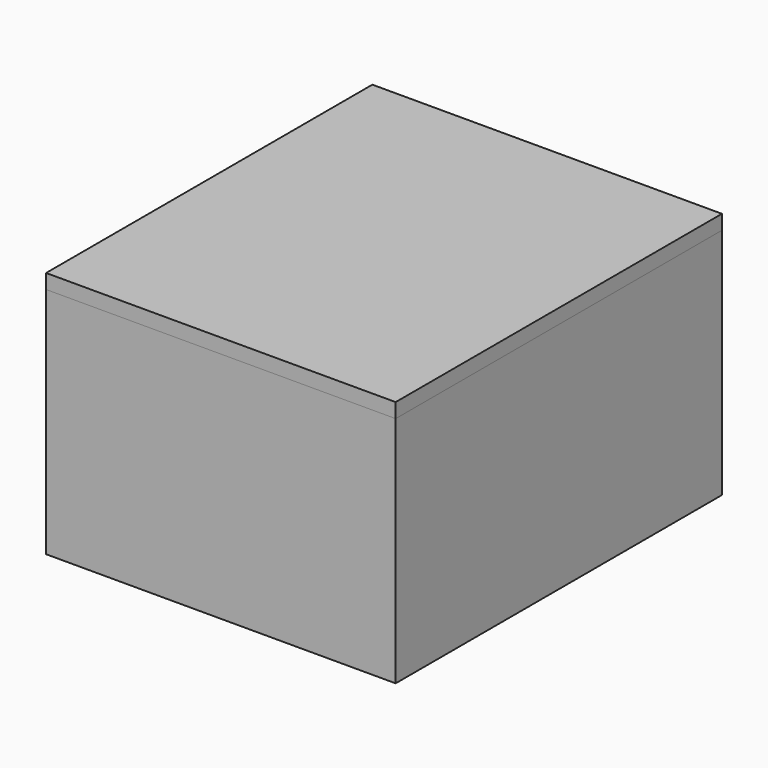
from build123d import *

# Parameters (mm, degrees)
F0_W      = 60
F0_H      = 70
F1_DEPTH  = 40
F2_T      = -2.5
F3_W      = 60
F3_H      = 70
F3_W_2    = 55
F3_H_2    = 65
F4_DEPTH  = 2.5
F5_DEPTH  = 4
F6_R      = 2.5
F6_R_2    = 1.6602380345
F6_R_3    = 1.65
F7_DEPTH  = 25
F7_FACE_R = 1.6602380345
F8_DEPTH  = 20


with BuildPart() as f1:
    # F0 (on Top) → F1 (new body)
    with BuildSketch(Plane.XY):
        Rectangle(F0_W, F0_H)
    extrude(amount=F1_DEPTH)

    # F2
    f2_openings = [f1.faces().sort_by_distance(p)[0] for p in [
        (0, 0, 40),
    ]]
    offset(amount=F2_T, openings=f2_openings)

    # F6 (on face) → F7 (join)
    with BuildSketch(Plane.XY.offset(2.5)):
        with Locations((-19.85, 24.85)):
            Circle(F6_R)
        with Locations((-19.85, 24.85)):
            Circle(F6_R_2, mode=Mode.SUBTRACT)
        with Locations((19.85, 24.85)):
            Circle(F6_R)
        with Locations((19.85, 24.85)):
            Circle(F6_R_3, mode=Mode.SUBTRACT)
        with Locations((-19.85, -27.85)):
            Circle(F6_R)
        with Locations((-19.85, -27.85)):
            Circle(F6_R_3, mode=Mode.SUBTRACT)
        with Locations((11.65, -27.85)):
            Circle(F6_R)
        with Locations((11.65, -27.85)):
            Circle(F6_R_3, mode=Mode.SUBTRACT)
    extrude(amount=F7_DEPTH)

    # F6 (on face) + F7_face (on face) → F8 (join)
    with BuildSketch(Plane.XY.offset(2.5)):
        with Locations((-19.85, 24.85)):
            Circle(F6_R)
        with Locations((-19.85, 24.85)):
            Circle(F6_R_2, mode=Mode.SUBTRACT)
        with Locations((19.85, 24.85)):
            Circle(F6_R)
        with Locations((19.85, 24.85)):
            Circle(F6_R_3, mode=Mode.SUBTRACT)
        with Locations((-19.85, -27.85)):
            Circle(F6_R)
        with Locations((-19.85, -27.85)):
            Circle(F6_R_3, mode=Mode.SUBTRACT)
        with Locations((11.65, -27.85)):
            Circle(F6_R)
        with Locations((11.65, -27.85)):
            Circle(F6_R_3, mode=Mode.SUBTRACT)
    with BuildSketch(Plane(origin=(-19.85, 24.85, 2.5), x_dir=(1, 0, 0), z_dir=(0, 0, 1))):
        Circle(F7_FACE_R)
    extrude(amount=F8_DEPTH)


with BuildPart() as f4:
    # F3 (on face) → F4 (new body)
    with BuildSketch(Plane.XY.offset(40)):
        Rectangle(F3_W, F3_H)
        Rectangle(F3_W_2, F3_H_2, mode=Mode.SUBTRACT)
        Rectangle(F3_W_2, F3_H_2)
    extrude(amount=F4_DEPTH)

    # F3 (on face) → F5 (join)
    with BuildSketch(Plane.XY.offset(40)):
        Rectangle(F3_W_2, F3_H_2)
    extrude(amount=-F5_DEPTH)


solid = Compound([f1.part, f4.part])
